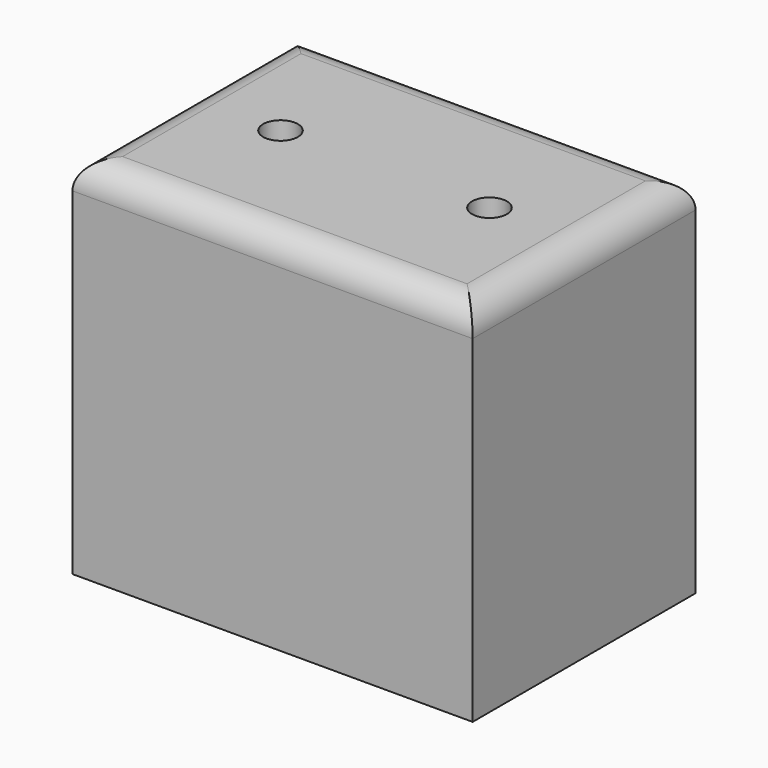
from build123d import *

# Parameters (mm, degrees)
F0_W     = 72.952986
F0_H     = 66.589336
F1_DEPTH = 50.8
F2_R     = 5.08
F4_D     = 6.35


with BuildPart() as f1:
    # F0 (on Front) → F1 (new body)
    with BuildSketch(Plane.XZ):
        Rectangle(F0_W, F0_H)
    extrude(amount=F1_DEPTH)

    # F2
    f2_edges = [f1.edges().sort_by_distance(p)[0] for p in [
        (36.476493, -25.4, 33.294668),
        (0, -50.8, 33.294668),
        (-36.476493, -25.4, 33.294668),
        (0, 0, 33.294668),
    ]]
    fillet(f2_edges, radius=F2_R)

    # F4 (through all)
    with Locations(Plane.XY.offset(33.294668)):
        with Locations((-18.866701, -25.4), (19.233299, -25.4)):
            Hole(F4_D / 2)


solid = f1.part
